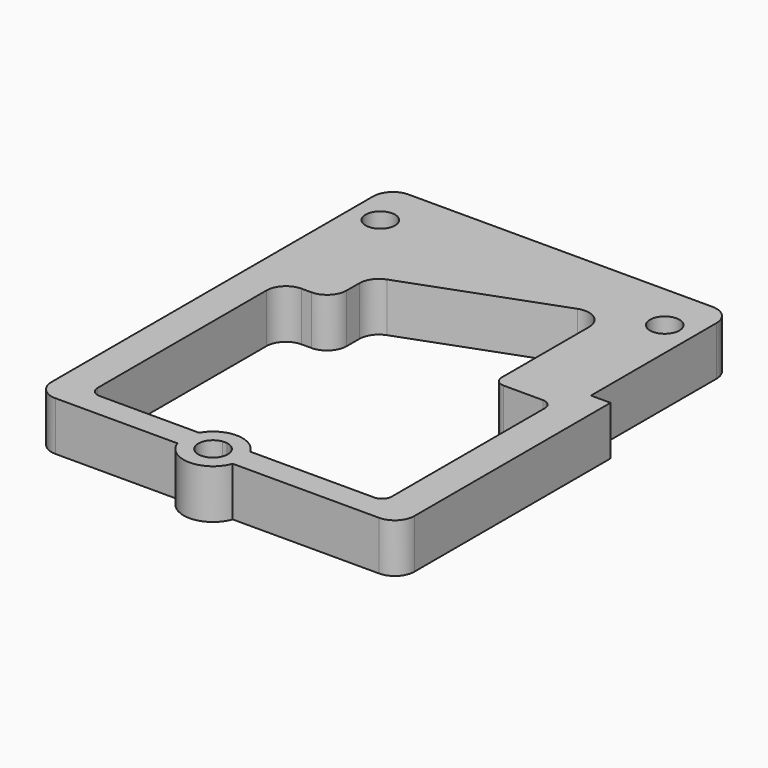
from build123d import *

# Parameters (mm, degrees)
F1_DEPTH = 50.8
F0_R     = 76.2
F0_R_2   = 38.1
F2_DEPTH = 127


with BuildPart() as f1:
    # F0 (on Top) → F1 (new body)
    with BuildSketch(Plane.XY):
        with BuildLine():
            Line((-355.6, -508), (-97.9242677745, -508))
            ThreePointArc((-97.9242677745, -508), (-31.6872932017, -469.4709861755), (34.5496813712, -508))
            Line((34.5496813712, -508), (355.6, -508))
            ThreePointArc((355.6, -508), (373.5605122421, -500.5605122421), (381, -482.6))
            Line((381, -482.6), (381, -393.7))
            ThreePointArc((381, -393.7), (366.1210244843, -429.6210244843), (330.2, -444.5))
            Line((330.2, -444.5), (-330.2, -444.5))
            ThreePointArc((-330.2, -444.5), (-366.1210244843, -429.6210244843), (-381, -393.7))
            Line((-381, -393.7), (-381, -482.6))
            ThreePointArc((-381, -482.6), (-373.5605122421, -500.5605122421), (-355.6, -508))
        make_face()
    extrude(amount=F1_DEPTH)

    # F0 (on Top) → F2 (join)
    with BuildSketch(Plane.XY):
        with BuildLine():
            ThreePointArc((419.1, 520.7), (404.2210244843, 556.6210244843), (368.3, 571.5))
            Line((368.3, 571.5), (-419.1, 571.5))
            ThreePointArc((-419.1, 571.5), (-455.0210244843, 556.6210244843), (-469.9, 520.7))
            Line((-469.9, 520.7), (-469.9, 448.4929144382))
            Line((-469.9, 448.4929144382), (-469.9, -520.7))
            ThreePointArc((-469.9, -520.7), (-455.0210244843, -556.6210244843), (-419.1, -571.5))
            Line((-419.1, -571.5), (-103.3762187401, -571.5))
            ThreePointArc((-103.3762187401, -571.5), (-107.6079819524, -539.1526259812), (-97.9242677745, -508))
            Line((-97.9242677745, -508), (-355.6, -508))
            ThreePointArc((-355.6, -508), (-373.5605122421, -500.5605122421), (-381, -482.6))
            Line((-381, -482.6), (-381, -393.7))
            Line((-381, -393.7), (-381, 63.5))
            ThreePointArc((-381, 63.5), (-366.1210244843, 99.4210244843), (-330.2, 114.3))
            Line((-330.2, 114.3), (-304.8, 114.3))
            ThreePointArc((-304.8, 114.3), (-268.8789755157, 129.1789755157), (-254, 165.1))
            Line((-254, 165.1), (-254, 205.8778104236))
            ThreePointArc((-254, 205.8778104236), (-244.8700196616, 234.9337816068), (-220.7618322284, 253.5456407579))
            Line((-220.7618322284, 253.5456407579), (160.2381677716, 393.9140618106))
            ThreePointArc((160.2381677716, 393.9140618106), (206.8559711832, 387.9162511379), (228.6, 346.2462314763))
            Line((228.6, 346.2462314763), (228.6, 63.5))
            ThreePointArc((228.6, 63.5), (236.0394877579, 45.5394877579), (254, 38.1))
            Line((254, 38.1), (355.6, 38.1))
            ThreePointArc((355.6, 38.1), (373.5605122421, 30.6605122421), (381, 12.7))
            Line((381, 12.7), (381, -393.7))
            Line((381, -393.7), (381, -482.6))
            ThreePointArc((381, -482.6), (373.5605122421, -500.5605122421), (355.6, -508))
            Line((355.6, -508), (34.5496813712, -508))
            ThreePointArc((34.5496813712, -508), (41.9798550479, -526.1878840413), (44.5127067983, -545.6709861755))
            ThreePointArc((44.5127067983, -545.6709861755), (43.3764667828, -558.7809799584), (40.0016323368, -571.5))
            Line((40.0016323368, -571.5), (419.1, -571.5))
            ThreePointArc((419.1, -571.5), (455.0210244843, -556.6210244843), (469.9, -520.7))
            Line((469.9, -520.7), (469.9, 114.3))
            Line((469.9, 114.3), (419.1, 114.3))
            Line((419.1, 114.3), (419.1, 448.4929144382))
            Line((419.1, 448.4929144382), (419.1, 520.7))
        make_face()
        with BuildLine():
            ThreePointArc((-317.5, 448.4929144382), (-393.7, 372.2929144382), (-469.9, 448.4929144382))
            ThreePointArc((-469.9, 448.4929144382), (-393.7, 524.6929144382), (-317.5, 448.4929144382))
        make_face(mode=Mode.SUBTRACT)
        with Locations((342.9, 448.4929144382)):
            Circle(F0_R, mode=Mode.SUBTRACT)
        with BuildLine():
            ThreePointArc((-317.5, 448.4929144382), (-393.7, 524.6929144382), (-469.9, 448.4929144382))
            ThreePointArc((-469.9, 448.4929144382), (-393.7, 372.2929144382), (-317.5, 448.4929144382))
        make_face()
        with Locations((-393.7, 448.4929144382)):
            Circle(F0_R_2, mode=Mode.SUBTRACT)
        with Locations((342.9, 448.4929144382)):
            Circle(F0_R)
        with Locations((342.9, 448.4929144382)):
            Circle(F0_R_2, mode=Mode.SUBTRACT)
        with BuildLine():
            Line((-3.6788650977, -571.5), (40.0016323368, -571.5))
            ThreePointArc((40.0016323368, -571.5), (43.3764667828, -558.7809799584), (44.5127067983, -545.6709861755))
            ThreePointArc((44.5127067983, -545.6709861755), (41.9798550479, -526.1878840413), (34.5496813712, -508))
            Line((34.5496813712, -508), (-25.9858196586, -508))
            ThreePointArc((-25.9858196586, -508), (-2.8009976449, -520.8276383938), (6.4127067983, -545.6709861755))
            ThreePointArc((6.4127067983, -545.6709861755), (3.8002476455, -559.5362104658), (-3.6788650977, -571.5))
        make_face()
        with BuildLine():
            ThreePointArc((34.5496813712, -508), (-31.6872932017, -469.4709861755), (-97.9242677745, -508))
            Line((-97.9242677745, -508), (-37.3887667448, -508))
            ThreePointArc((-37.3887667448, -508), (-31.6872932017, -507.5709861755), (-25.9858196586, -508))
            Line((-25.9858196586, -508), (34.5496813712, -508))
        make_face()
        with BuildLine():
            ThreePointArc((-97.9242677745, -508), (-107.6079819524, -539.1526259812), (-103.3762187401, -571.5))
            Line((-103.3762187401, -571.5), (-59.6957213057, -571.5))
            ThreePointArc((-59.6957213057, -571.5), (-67.633807181, -533.0433128848), (-37.3887667448, -508))
            Line((-37.3887667448, -508), (-97.9242677745, -508))
        make_face()
        with BuildLine():
            Line((-59.6957213057, -571.5), (-103.3762187401, -571.5))
            ThreePointArc((-103.3762187401, -571.5), (-31.6872932017, -621.8709861755), (40.0016323368, -571.5))
            Line((40.0016323368, -571.5), (-3.6788650977, -571.5))
            ThreePointArc((-3.6788650977, -571.5), (-31.6872932017, -583.7709861755), (-59.6957213057, -571.5))
        make_face()
    extrude(amount=F2_DEPTH)


solid = f1.part
